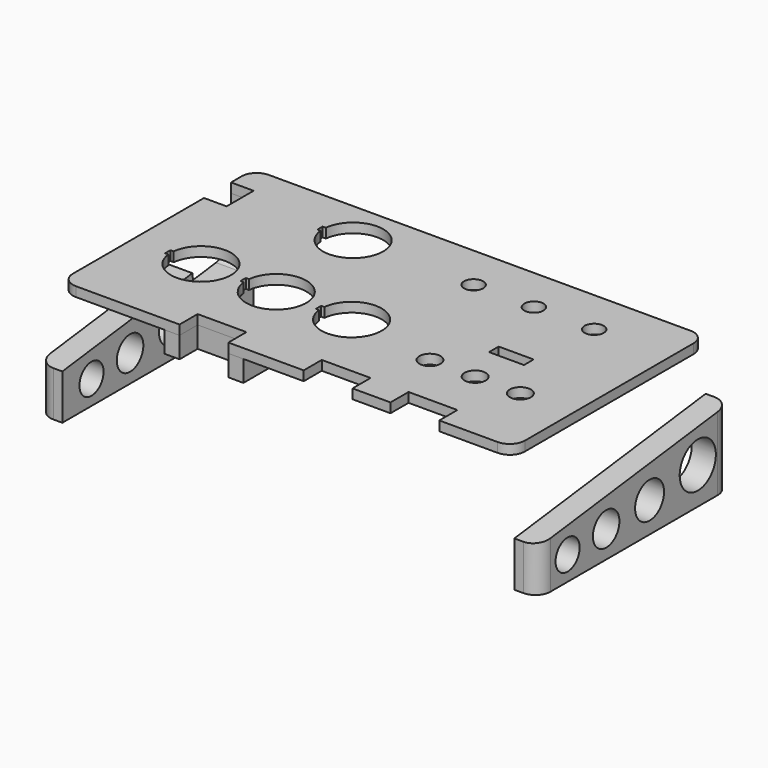
from build123d import *

# Parameters (mm, degrees)
F0_W      = 150
F0_H      = 80
F1_DEPTH  = 3.175
F2_R      = 5
F3_R      = 3.5
F3_R_2    = 3.175
F3_W      = 11.6
F3_H      = 4
F4_DEPTH  = 3.176
F5_W      = 7.5
F5_H      = 11.2
F5_W_2    = 16.2
F5_H_2    = 7.5
F6_DEPTH  = 3.176
F8_DEPTH  = 7
F10_DEPTH = 7
F11_R     = 5
F11_R_2   = 5.5
F11_R_3   = 6
F11_R_4   = 7.5
F12_DEPTH = 8
F13_R     = 6
F13_R_2   = 5.5
F13_R_3   = 5
F14_DEPTH = 8
F15_R     = 5
F15_2_R   = 5
F16_R     = 2.5


with BuildPart() as f1:
    # F0 (on Top) → F1 (new body)
    with BuildSketch(Plane.XY):
        Rectangle(F0_W, F0_H)
    extrude(amount=F1_DEPTH)

    # F2
    f2_edges = [f1.edges().sort_by_distance(p)[0] for p in [
        (-75, 40, 1.5875),
        (-75, -40, 1.5875),
        (75, -40, 1.5875),
        (75, 40, 1.5875),
    ]]
    fillet(f2_edges, radius=F2_R)

    # F3 (on face) → F4 (cut, through all)
    with BuildSketch(Plane.XY.offset(3.175)):
        with BuildLine():
            Line((-41, 23.9), (-39.939316, 23.9))
            ThreePointArc((-39.939316, 23.9), (-20, 25), (-39.939316, 26.1))
            Line((-39.939316, 26.1), (-41, 26.1))
            Line((-41, 26.1), (-41, 23.9))
        make_face()
        with BuildLine():
            Line((-63.5, -11.1), (-62.439316, -11.1))
            ThreePointArc((-62.439316, -11.1), (-42.5, -10), (-62.439316, -8.9))
            Line((-62.439316, -8.9), (-63.5, -8.9))
            Line((-63.5, -8.9), (-63.5, -11.1))
        make_face()
        with BuildLine():
            Line((-38.5, -11.1), (-37.439316, -11.1))
            ThreePointArc((-37.439316, -11.1), (-17.5, -10), (-37.439316, -8.9))
            Line((-37.439316, -8.9), (-38.5, -8.9))
            Line((-38.5, -8.9), (-38.5, -11.1))
        make_face()
        with BuildLine():
            Line((-13.5, -11.1), (-12.439316, -11.1))
            ThreePointArc((-12.439316, -11.1), (7.5, -10), (-12.439316, -8.9))
            Line((-12.439316, -8.9), (-13.5, -8.9))
            Line((-13.5, -8.9), (-13.5, -11.1))
        make_face()
        with Locations((27.5, -15)):
            Circle(F3_R)
        with Locations((42.5, -15)):
            Circle(F3_R)
        with Locations((57.5, -15)):
            Circle(F3_R)
        with Locations((10, 25)):
            Circle(F3_R_2)
        with Locations((30, 25)):
            Circle(F3_R_2)
        with Locations((50, 25)):
            Circle(F3_R_2)
        with Locations((42.5, 0)):
            Rectangle(F3_W, F3_H)
    extrude(amount=-F4_DEPTH, mode=Mode.SUBTRACT)

    # F5 (on face) → F6 (cut, through all)
    with BuildSketch(Plane.XY.offset(3.175)):
        with Locations((-71.25, 25)):
            Rectangle(F5_W, F5_H)
        with Locations((-27.5, -36.25)):
            Rectangle(F5_W_2, F5_H_2)
        with Locations((42.5, -36.25)):
            Rectangle(F5_W_2, F5_H_2)
        with Locations((13.7, -36.25)):
            Rectangle(F5_W_2, F5_H_2)
    extrude(amount=-F6_DEPTH, mode=Mode.SUBTRACT)


with BuildPart() as f8:
    # F7 (on Top) → F8 (new body)
    with BuildSketch(Plane.XY):
        Polygon((-75, 14.4), (-62.5, 14.4), (-62.5, 35.6), (-75, 35.6), (-75, 30.6), (-67.5, 30.6), (-67.5, 19.4), (-75, 19.4), align=None)
    extrude(amount=-F8_DEPTH)


with BuildPart() as f10:
    # F9 (on Top) → F10 (new body)
    with BuildSketch(Plane.XY):
        Polygon((-35.6, -40), (-35.6, -32.5), (-19.4, -32.5), (-19.4, -40), (-14.4, -40), (-14.4, -27.5), (-40.6, -27.5), (-40.6, -40), align=None)
    extrude(amount=-F10_DEPTH)


with BuildPart() as f12:
    # F11 (on face) → F12 (new body)
    with BuildSketch(Plane.YZ.offset(75)):
        Polygon((40, -38.610302), (40, -13.610302), (-39.372539, -23.610302), (-39.372539, -38.610302), align=None)
        with Locations((-27.27124, -30.646109)):
            Circle(F11_R, mode=Mode.SUBTRACT)
        with Locations((-11.27124, -29.638122)):
            Circle(F11_R_2, mode=Mode.SUBTRACT)
        with Locations((6.72876, -28.566959)):
            Circle(F11_R_3, mode=Mode.SUBTRACT)
        with Locations((26.72876, -26.431859)):
            Circle(F11_R_4, mode=Mode.SUBTRACT)
    extrude(amount=F12_DEPTH)

    # F15
    f15_edges = [f12.edges().sort_by_distance(p)[0] for p in [
        (83, -39.372539, -31.110302),
        (83, 40, -26.110302),
    ]]
    fillet(f15_edges, radius=F15_R)


with BuildPart() as f14:
    # F13 (on face) → F14 (new body)
    with BuildSketch(Plane(origin=(-75, 0, 0), x_dir=(0, -1, 0), z_dir=(-1, 0, 0))):
        Polygon((-35.6, -14.16465), (-40, -13.610302), (-40, -38.610302), (39.372539, -38.610302), (39.372539, -23.610302), (-14.566277, -16.81465), (-15.816277, -26.736218), (-36.85, -24.086218), align=None)
        with Locations((-6.72876, -28.566959)):
            Circle(F13_R, mode=Mode.SUBTRACT)
        with Locations((11.27124, -29.638122)):
            Circle(F13_R_2, mode=Mode.SUBTRACT)
        with Locations((27.27124, -30.646109)):
            Circle(F13_R_3, mode=Mode.SUBTRACT)
    extrude(amount=F14_DEPTH)

    # F15#2
    f15_2_edges = [f14.edges().sort_by_distance(p)[0] for p in [
        (-83, 40, -26.110302),
        (-83, -39.372539, -31.110302),
    ]]
    fillet(f15_2_edges, radius=F15_2_R)

    # F16
    f16_edges = [f14.edges().sort_by_distance(p)[0] for p in [
        (-79, 15.816277, -26.736218),
        (-78.822579, 36.85, -24.086218),
    ]]
    fillet(f16_edges, radius=F16_R)


solid = Compound([f1.part, f8.part, f10.part, f12.part, f14.part])
